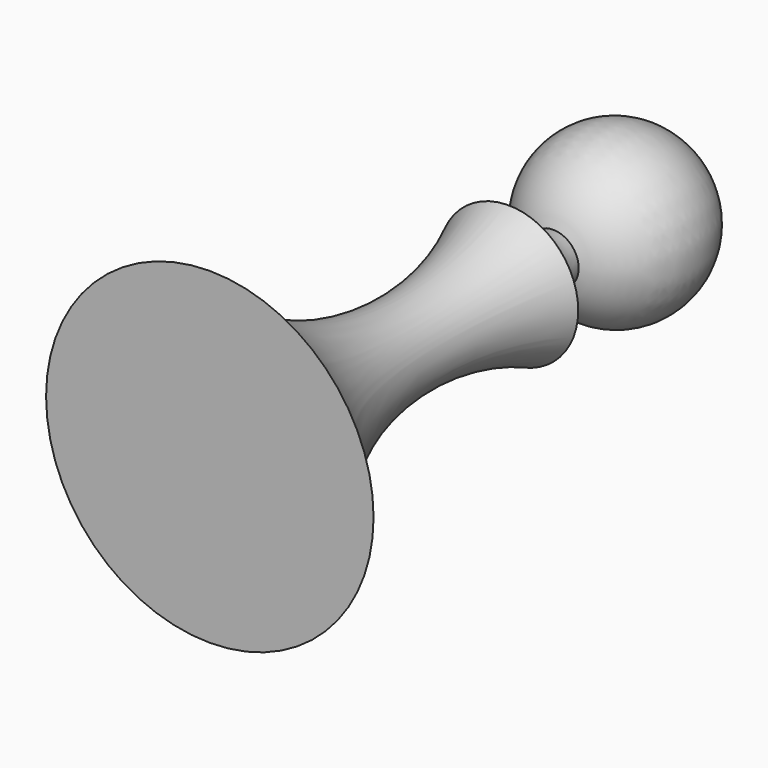
from build123d import *


with BuildPart() as f1:
    # F0 (on Top) → F1 (revolve)
    with BuildSketch(Plane.XY):
        with BuildLine():
            ThreePointArc((4.16984, 22.175685), (13.584128, 36.980949), (0, 48.084829))
            Line((0, 48.084829), (0, 21.677585))
            ThreePointArc((0, 21.677585), (2.104833, 21.759933), (4.16984, 22.175685))
        make_face()
        with BuildLine():
            ThreePointArc((4.16984, 22.175685), (2.104833, 21.759933), (0, 21.677585))
            Line((0, 21.677585), (0, -48.084829))
            Line((0, -48.084829), (26.801381, -48.084829))
            ThreePointArc((26.801381, -48.084829), (8.290333, -20.262938), (11.430001, 13.006552))
            ThreePointArc((11.430001, 13.006552), (6.520495, 16.578063), (4.16984, 22.175685))
        make_face()
    revolve(axis=Axis((0, 0, 0), (0, -1, 0)))


solid = f1.part
